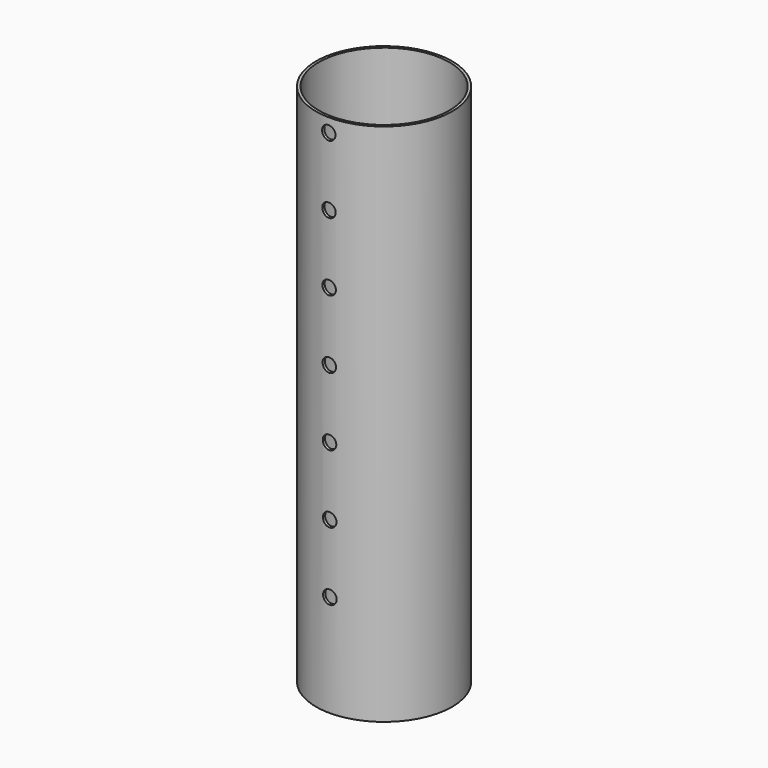
from build123d import *

# Parameters (mm, degrees)
F0_R     = 10
F0_R_2   = 9.6
F1_DEPTH = 77
F3_R     = 1
F4_DEPTH = 10


with BuildPart() as f1:
    # F0 (on Top) → F1 (new body)
    with BuildSketch(Plane.XY):
        Circle(F0_R)
        Circle(F0_R_2, mode=Mode.SUBTRACT)
    extrude(amount=F1_DEPTH)

    # F3 (on offset) → F4 (cut)
    with BuildSketch(Plane.XZ.offset(10)):
        with Locations((0, 15)):
            Circle(F3_R)
        with Locations((-0.026574, 24.999965)):
            Circle(F3_R)
        with Locations((-0.053149, 34.999929)):
            Circle(F3_R)
        with Locations((-0.079723, 44.999894)):
            Circle(F3_R)
        with Locations((-0.106297, 54.999859)):
            Circle(F3_R)
        with Locations((-0.132872, 64.999823)):
            Circle(F3_R)
        with Locations((-0.159446, 74.999788)):
            Circle(F3_R)
    extrude(amount=-F4_DEPTH, mode=Mode.SUBTRACT)


solid = f1.part
